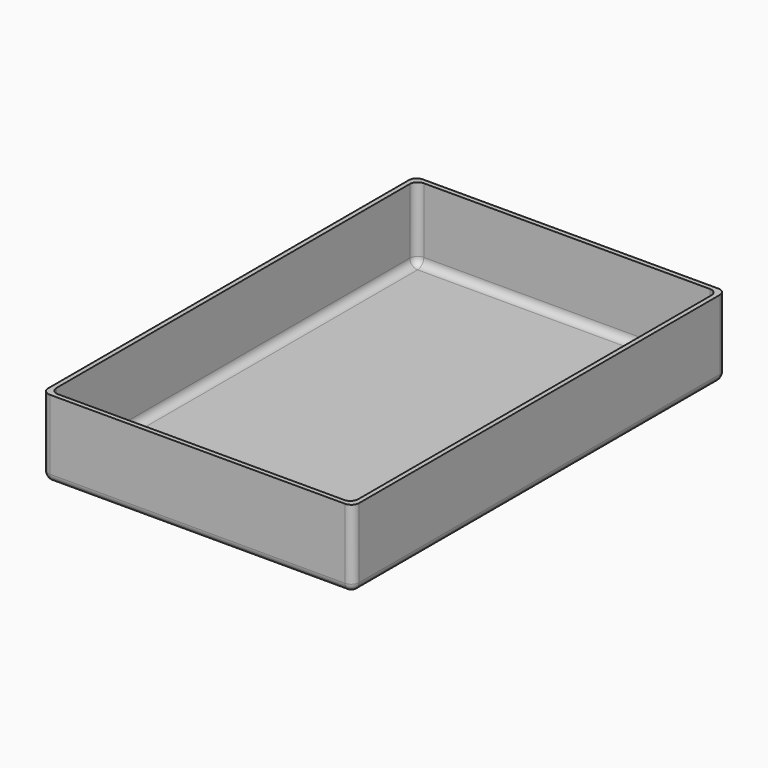
from build123d import *

# Parameters (mm, degrees)
F0_W     = 80
F0_H     = 120
F1_DEPTH = 20
F2_W     = 77.6
F2_H     = 117.6
F3_DEPTH = 18.8
F4_R     = 2
F5_R     = 2
F6_R     = 2
F7_R     = 2


with BuildPart() as f1:
    # F0 (on Top) → F1 (new body)
    with BuildSketch(Plane.XY):
        Rectangle(F0_W, F0_H)
    extrude(amount=F1_DEPTH)

    # F2 (on face) → F3 (cut)
    with BuildSketch(Plane.XY.offset(20)):
        Rectangle(F2_W, F2_H)
    extrude(amount=-F3_DEPTH, mode=Mode.SUBTRACT)

    # F4
    f4_edges = [f1.edges().sort_by_distance(p)[0] for p in [
        (40, -60, 10),
        (40, 60, 10),
        (-40, -60, 10),
        (-40, 60, 10),
    ]]
    fillet(f4_edges, radius=F4_R)

    # F5
    f5_edges = [f1.edges().sort_by_distance(p)[0] for p in [
        (-38.8, 58.8, 10.6),
        (-38.8, -58.8, 10.6),
        (38.8, -58.8, 10.6),
        (38.8, 58.8, 10.6),
    ]]
    fillet(f5_edges, radius=F5_R)

    # F6
    f6_edges = [f1.edges().sort_by_distance(p)[0] for p in [
        (0, -58.8, 1.2),
        (-38.214214, -58.214214, 1.2),
        (38.214214, -58.214214, 1.2),
        (-38.8, 0, 1.2),
        (38.8, 0, 1.2),
        (-38.214214, 58.214214, 1.2),
        (38.214214, 58.214214, 1.2),
        (0, 58.8, 1.2),
    ]]
    fillet(f6_edges, radius=F6_R)

    # F7
    f7_edges = [f1.edges().sort_by_distance(p)[0] for p in [
        (-40, 0, 0),
        (-39.414214, 59.414214, 0),
        (-39.414214, -59.414214, 0),
        (0, 60, 0),
        (0, -60, 0),
        (39.414214, 59.414214, 0),
        (39.414214, -59.414214, 0),
        (40, 0, 0),
    ]]
    fillet(f7_edges, radius=F7_R)


solid = f1.part
